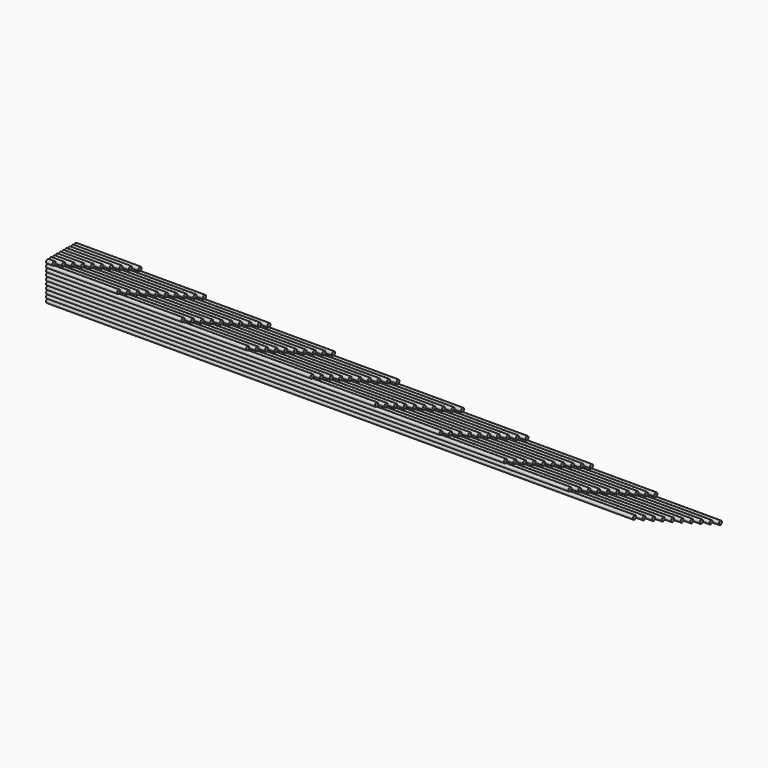
from build123d import *

# Parameters (mm, degrees)
F1_DEPTH   = 10
F2_DEPTH   = 20
F3_DEPTH   = 30
F4_DEPTH   = 40
F5_DEPTH   = 50
F6_DEPTH   = 60
F7_DEPTH   = 70
F8_DEPTH   = 80
F9_DEPTH   = 90
F10_DEPTH  = 100
F11_DEPTH  = 110
F12_DEPTH  = 120
F13_DEPTH  = 130
F14_DEPTH  = 140
F15_DEPTH  = 150
F16_DEPTH  = 160
F17_DEPTH  = 170
F18_DEPTH  = 180
F19_DEPTH  = 190
F20_DEPTH  = 200
F21_DEPTH  = 210
F22_DEPTH  = 220
F23_DEPTH  = 230
F24_DEPTH  = 240
F25_DEPTH  = 250
F26_DEPTH  = 260
F27_DEPTH  = 270
F28_DEPTH  = 280
F29_DEPTH  = 290
F30_DEPTH  = 300
F31_DEPTH  = 310
F32_DEPTH  = 320
F33_DEPTH  = 330
F34_DEPTH  = 340
F35_DEPTH  = 350
F36_DEPTH  = 360
F37_DEPTH  = 370
F38_DEPTH  = 380
F39_DEPTH  = 390
F40_DEPTH  = 400
F41_DEPTH  = 410
F42_DEPTH  = 420
F43_DEPTH  = 430
F44_DEPTH  = 440
F45_DEPTH  = 450
F46_DEPTH  = 460
F47_DEPTH  = 470
F48_DEPTH  = 480
F49_DEPTH  = 490
F50_DEPTH  = 500
F51_DEPTH  = 510
F52_DEPTH  = 520
F53_DEPTH  = 530
F54_DEPTH  = 540
F55_DEPTH  = 550
F56_DEPTH  = 560
F57_DEPTH  = 570
F58_DEPTH  = 580
F59_DEPTH  = 590
F60_DEPTH  = 600
F61_DEPTH  = 610
F62_DEPTH  = 620
F63_DEPTH  = 630
F64_DEPTH  = 640
F65_DEPTH  = 650
F66_DEPTH  = 660
F67_DEPTH  = 670
F68_DEPTH  = 680
F69_DEPTH  = 690
F70_DEPTH  = 700
F71_DEPTH  = 710
F72_DEPTH  = 720
F73_DEPTH  = 730
F74_DEPTH  = 740
F75_DEPTH  = 750
F76_DEPTH  = 760
F77_DEPTH  = 770
F78_DEPTH  = 780
F79_DEPTH  = 790
F80_DEPTH  = 800
F81_DEPTH  = 810
F82_DEPTH  = 820
F83_DEPTH  = 830
F84_DEPTH  = 840
F85_DEPTH  = 850
F86_DEPTH  = 860
F87_DEPTH  = 870
F88_DEPTH  = 880
F89_DEPTH  = 890
F90_DEPTH  = 900
F91_DEPTH  = 910
F92_DEPTH  = 920
F93_DEPTH  = 930
F94_DEPTH  = 940
F95_DEPTH  = 950
F96_DEPTH  = 960
F97_DEPTH  = 970
F98_DEPTH  = 980
F99_DEPTH  = 990
F100_DEPTH = 1000


with BuildPart() as f1:
    # F0 (on Right) → F1 (new body)
    with BuildSketch(Plane.YZ):
        with BuildLine():
            ThreePointArc((3, 54), (-2.12132, 56.12132), (0, 51))
            ThreePointArc((0, 51), (2.12132, 51.87868), (3, 54))
        make_face()
    extrude(amount=F1_DEPTH)


with BuildPart() as f2:
    # F0 (on Right) → F2 (new body)
    with BuildSketch(Plane.YZ):
        with BuildLine():
            ThreePointArc((9, 54), (6, 57), (3, 54))
            ThreePointArc((3, 54), (3.87868, 51.87868), (6, 51))
            ThreePointArc((6, 51), (8.12132, 51.87868), (9, 54))
        make_face()
    extrude(amount=F2_DEPTH)


with BuildPart() as f3:
    # F0 (on Right) → F3 (new body)
    with BuildSketch(Plane.YZ):
        with BuildLine():
            ThreePointArc((15, 54), (12, 57), (9, 54))
            ThreePointArc((9, 54), (9.87868, 51.87868), (12, 51))
            ThreePointArc((12, 51), (14.12132, 51.87868), (15, 54))
        make_face()
    extrude(amount=F3_DEPTH)


with BuildPart() as f4:
    # F0 (on Right) → F4 (new body)
    with BuildSketch(Plane.YZ):
        with BuildLine():
            ThreePointArc((21, 54), (18, 57), (15, 54))
            ThreePointArc((15, 54), (15.87868, 51.87868), (18, 51))
            ThreePointArc((18, 51), (20.12132, 51.87868), (21, 54))
        make_face()
    extrude(amount=F4_DEPTH)


with BuildPart() as f5:
    # F0 (on Right) → F5 (new body)
    with BuildSketch(Plane.YZ):
        with BuildLine():
            ThreePointArc((27, 54), (24, 57), (21, 54))
            ThreePointArc((21, 54), (21.87868, 51.87868), (24, 51))
            ThreePointArc((24, 51), (26.12132, 51.87868), (27, 54))
        make_face()
    extrude(amount=F5_DEPTH)


with BuildPart() as f6:
    # F0 (on Right) → F6 (new body)
    with BuildSketch(Plane.YZ):
        with BuildLine():
            ThreePointArc((33, 54), (30, 57), (27, 54))
            ThreePointArc((27, 54), (27.87868, 51.87868), (30, 51))
            ThreePointArc((30, 51), (32.12132, 51.87868), (33, 54))
        make_face()
    extrude(amount=F6_DEPTH)


with BuildPart() as f7:
    # F0 (on Right) → F7 (new body)
    with BuildSketch(Plane.YZ):
        with BuildLine():
            ThreePointArc((39, 54), (36, 57), (33, 54))
            ThreePointArc((33, 54), (33.87868, 51.87868), (36, 51))
            ThreePointArc((36, 51), (38.12132, 51.87868), (39, 54))
        make_face()
    extrude(amount=F7_DEPTH)


with BuildPart() as f8:
    # F0 (on Right) → F8 (new body)
    with BuildSketch(Plane.YZ):
        with BuildLine():
            ThreePointArc((45, 54), (42, 57), (39, 54))
            ThreePointArc((39, 54), (39.87868, 51.87868), (42, 51))
            ThreePointArc((42, 51), (44.12132, 51.87868), (45, 54))
        make_face()
    extrude(amount=F8_DEPTH)


with BuildPart() as f9:
    # F0 (on Right) → F9 (new body)
    with BuildSketch(Plane.YZ):
        with BuildLine():
            ThreePointArc((51, 54), (48, 57), (45, 54))
            ThreePointArc((45, 54), (45.87868, 51.87868), (48, 51))
            ThreePointArc((48, 51), (50.12132, 51.87868), (51, 54))
        make_face()
    extrude(amount=F9_DEPTH)


with BuildPart() as f10:
    # F0 (on Right) → F10 (new body)
    with BuildSketch(Plane.YZ):
        with BuildLine():
            ThreePointArc((51, 54), (51.87868, 51.87868), (54, 51))
            ThreePointArc((54, 51), (56.12132, 51.87868), (57, 54))
            ThreePointArc((57, 54), (54, 57), (51, 54))
        make_face()
    extrude(amount=F10_DEPTH)


with BuildPart() as f11:
    # F0 (on Right) → F11 (new body)
    with BuildSketch(Plane.YZ):
        with BuildLine():
            ThreePointArc((0, 51), (-3, 48), (0, 45))
            ThreePointArc((0, 45), (2.12132, 45.87868), (3, 48))
            ThreePointArc((3, 48), (2.12132, 50.12132), (0, 51))
        make_face()
    extrude(amount=F11_DEPTH)


with BuildPart() as f12:
    # F0 (on Right) → F12 (new body)
    with BuildSketch(Plane.YZ):
        with BuildLine():
            ThreePointArc((6, 51), (3.87868, 50.12132), (3, 48))
            ThreePointArc((3, 48), (3.87868, 45.87868), (6, 45))
            ThreePointArc((6, 45), (8.12132, 45.87868), (9, 48))
            ThreePointArc((9, 48), (8.12132, 50.12132), (6, 51))
        make_face()
    extrude(amount=F12_DEPTH)


with BuildPart() as f13:
    # F0 (on Right) → F13 (new body)
    with BuildSketch(Plane.YZ):
        with BuildLine():
            ThreePointArc((12, 51), (9.87868, 50.12132), (9, 48))
            ThreePointArc((9, 48), (9.87868, 45.87868), (12, 45))
            ThreePointArc((12, 45), (14.12132, 45.87868), (15, 48))
            ThreePointArc((15, 48), (14.12132, 50.12132), (12, 51))
        make_face()
    extrude(amount=F13_DEPTH)


with BuildPart() as f14:
    # F0 (on Right) → F14 (new body)
    with BuildSketch(Plane.YZ):
        with BuildLine():
            ThreePointArc((18, 51), (15.87868, 50.12132), (15, 48))
            ThreePointArc((15, 48), (15.87868, 45.87868), (18, 45))
            ThreePointArc((18, 45), (20.12132, 45.87868), (21, 48))
            ThreePointArc((21, 48), (20.12132, 50.12132), (18, 51))
        make_face()
    extrude(amount=F14_DEPTH)


with BuildPart() as f15:
    # F0 (on Right) → F15 (new body)
    with BuildSketch(Plane.YZ):
        with BuildLine():
            ThreePointArc((24, 51), (21.87868, 50.12132), (21, 48))
            ThreePointArc((21, 48), (21.87868, 45.87868), (24, 45))
            ThreePointArc((24, 45), (26.12132, 45.87868), (27, 48))
            ThreePointArc((27, 48), (26.12132, 50.12132), (24, 51))
        make_face()
    extrude(amount=F15_DEPTH)


with BuildPart() as f16:
    # F0 (on Right) → F16 (new body)
    with BuildSketch(Plane.YZ):
        with BuildLine():
            ThreePointArc((30, 51), (27.87868, 50.12132), (27, 48))
            ThreePointArc((27, 48), (27.87868, 45.87868), (30, 45))
            ThreePointArc((30, 45), (32.12132, 45.87868), (33, 48))
            ThreePointArc((33, 48), (32.12132, 50.12132), (30, 51))
        make_face()
    extrude(amount=F16_DEPTH)


with BuildPart() as f17:
    # F0 (on Right) → F17 (new body)
    with BuildSketch(Plane.YZ):
        with BuildLine():
            ThreePointArc((36, 51), (33.87868, 50.12132), (33, 48))
            ThreePointArc((33, 48), (33.87868, 45.87868), (36, 45))
            ThreePointArc((36, 45), (38.12132, 45.87868), (39, 48))
            ThreePointArc((39, 48), (38.12132, 50.12132), (36, 51))
        make_face()
    extrude(amount=F17_DEPTH)


with BuildPart() as f18:
    # F0 (on Right) → F18 (new body)
    with BuildSketch(Plane.YZ):
        with BuildLine():
            ThreePointArc((42, 51), (39.87868, 50.12132), (39, 48))
            ThreePointArc((39, 48), (39.87868, 45.87868), (42, 45))
            ThreePointArc((42, 45), (44.12132, 45.87868), (45, 48))
            ThreePointArc((45, 48), (44.12132, 50.12132), (42, 51))
        make_face()
    extrude(amount=F18_DEPTH)


with BuildPart() as f19:
    # F0 (on Right) → F19 (new body)
    with BuildSketch(Plane.YZ):
        with BuildLine():
            ThreePointArc((45, 48), (45.87868, 45.87868), (48, 45))
            ThreePointArc((48, 45), (50.12132, 45.87868), (51, 48))
            ThreePointArc((51, 48), (50.12132, 50.12132), (48, 51))
            ThreePointArc((48, 51), (45.87868, 50.12132), (45, 48))
        make_face()
    extrude(amount=F19_DEPTH)


with BuildPart() as f20:
    # F0 (on Right) → F20 (new body)
    with BuildSketch(Plane.YZ):
        with BuildLine():
            ThreePointArc((51, 48), (51.87868, 45.87868), (54, 45))
            ThreePointArc((54, 45), (56.12132, 45.87868), (57, 48))
            ThreePointArc((57, 48), (56.12132, 50.12132), (54, 51))
            ThreePointArc((54, 51), (51.87868, 50.12132), (51, 48))
        make_face()
    extrude(amount=F20_DEPTH)


with BuildPart() as f21:
    # F0 (on Right) → F21 (new body)
    with BuildSketch(Plane.YZ):
        with BuildLine():
            ThreePointArc((0, 45), (-3, 42), (0, 39))
            ThreePointArc((0, 39), (2.12132, 39.87868), (3, 42))
            ThreePointArc((3, 42), (2.12132, 44.12132), (0, 45))
        make_face()
    extrude(amount=F21_DEPTH)


with BuildPart() as f22:
    # F0 (on Right) → F22 (new body)
    with BuildSketch(Plane.YZ):
        with BuildLine():
            ThreePointArc((6, 45), (3.87868, 44.12132), (3, 42))
            ThreePointArc((3, 42), (3.87868, 39.87868), (6, 39))
            ThreePointArc((6, 39), (8.12132, 39.87868), (9, 42))
            ThreePointArc((9, 42), (8.12132, 44.12132), (6, 45))
        make_face()
    extrude(amount=F22_DEPTH)


with BuildPart() as f23:
    # F0 (on Right) → F23 (new body)
    with BuildSketch(Plane.YZ):
        with BuildLine():
            ThreePointArc((12, 45), (9.87868, 44.12132), (9, 42))
            ThreePointArc((9, 42), (9.87868, 39.87868), (12, 39))
            ThreePointArc((12, 39), (14.12132, 39.87868), (15, 42))
            ThreePointArc((15, 42), (14.12132, 44.12132), (12, 45))
        make_face()
    extrude(amount=F23_DEPTH)


with BuildPart() as f24:
    # F0 (on Right) → F24 (new body)
    with BuildSketch(Plane.YZ):
        with BuildLine():
            ThreePointArc((18, 45), (15.87868, 44.12132), (15, 42))
            ThreePointArc((15, 42), (15.87868, 39.87868), (18, 39))
            ThreePointArc((18, 39), (20.12132, 39.87868), (21, 42))
            ThreePointArc((21, 42), (20.12132, 44.12132), (18, 45))
        make_face()
    extrude(amount=F24_DEPTH)


with BuildPart() as f25:
    # F0 (on Right) → F25 (new body)
    with BuildSketch(Plane.YZ):
        with BuildLine():
            ThreePointArc((24, 45), (21.87868, 44.12132), (21, 42))
            ThreePointArc((21, 42), (21.87868, 39.87868), (24, 39))
            ThreePointArc((24, 39), (26.12132, 39.87868), (27, 42))
            ThreePointArc((27, 42), (26.12132, 44.12132), (24, 45))
        make_face()
    extrude(amount=F25_DEPTH)


with BuildPart() as f26:
    # F0 (on Right) → F26 (new body)
    with BuildSketch(Plane.YZ):
        with BuildLine():
            ThreePointArc((30, 45), (27.87868, 44.12132), (27, 42))
            ThreePointArc((27, 42), (27.87868, 39.87868), (30, 39))
            ThreePointArc((30, 39), (32.12132, 39.87868), (33, 42))
            ThreePointArc((33, 42), (32.12132, 44.12132), (30, 45))
        make_face()
    extrude(amount=F26_DEPTH)


with BuildPart() as f27:
    # F0 (on Right) → F27 (new body)
    with BuildSketch(Plane.YZ):
        with BuildLine():
            ThreePointArc((36, 45), (33.87868, 44.12132), (33, 42))
            ThreePointArc((33, 42), (33.87868, 39.87868), (36, 39))
            ThreePointArc((36, 39), (38.12132, 39.87868), (39, 42))
            ThreePointArc((39, 42), (38.12132, 44.12132), (36, 45))
        make_face()
    extrude(amount=F27_DEPTH)


with BuildPart() as f28:
    # F0 (on Right) → F28 (new body)
    with BuildSketch(Plane.YZ):
        with BuildLine():
            ThreePointArc((39, 42), (39.87868, 39.87868), (42, 39))
            ThreePointArc((42, 39), (44.12132, 39.87868), (45, 42))
            ThreePointArc((45, 42), (44.12132, 44.12132), (42, 45))
            ThreePointArc((42, 45), (39.87868, 44.12132), (39, 42))
        make_face()
    extrude(amount=F28_DEPTH)


with BuildPart() as f29:
    # F0 (on Right) → F29 (new body)
    with BuildSketch(Plane.YZ):
        with BuildLine():
            ThreePointArc((45, 42), (45.87868, 39.87868), (48, 39))
            ThreePointArc((48, 39), (50.12132, 39.87868), (51, 42))
            ThreePointArc((51, 42), (50.12132, 44.12132), (48, 45))
            ThreePointArc((48, 45), (45.87868, 44.12132), (45, 42))
        make_face()
    extrude(amount=F29_DEPTH)


with BuildPart() as f30:
    # F0 (on Right) → F30 (new body)
    with BuildSketch(Plane.YZ):
        with BuildLine():
            ThreePointArc((51, 42), (51.87868, 39.87868), (54, 39))
            ThreePointArc((54, 39), (56.12132, 39.87868), (57, 42))
            ThreePointArc((57, 42), (56.12132, 44.12132), (54, 45))
            ThreePointArc((54, 45), (51.87868, 44.12132), (51, 42))
        make_face()
    extrude(amount=F30_DEPTH)


with BuildPart() as f31:
    # F0 (on Right) → F31 (new body)
    with BuildSketch(Plane.YZ):
        with BuildLine():
            ThreePointArc((0, 39), (-3, 36), (0, 33))
            ThreePointArc((0, 33), (2.12132, 33.87868), (3, 36))
            ThreePointArc((3, 36), (2.12132, 38.12132), (0, 39))
        make_face()
    extrude(amount=F31_DEPTH)


with BuildPart() as f32:
    # F0 (on Right) → F32 (new body)
    with BuildSketch(Plane.YZ):
        with BuildLine():
            ThreePointArc((6, 39), (3.87868, 38.12132), (3, 36))
            ThreePointArc((3, 36), (3.87868, 33.87868), (6, 33))
            ThreePointArc((6, 33), (8.12132, 33.87868), (9, 36))
            ThreePointArc((9, 36), (8.12132, 38.12132), (6, 39))
        make_face()
    extrude(amount=F32_DEPTH)


with BuildPart() as f33:
    # F0 (on Right) → F33 (new body)
    with BuildSketch(Plane.YZ):
        with BuildLine():
            ThreePointArc((12, 39), (9.87868, 38.12132), (9, 36))
            ThreePointArc((9, 36), (9.87868, 33.87868), (12, 33))
            ThreePointArc((12, 33), (14.12132, 33.87868), (15, 36))
            ThreePointArc((15, 36), (14.12132, 38.12132), (12, 39))
        make_face()
    extrude(amount=F33_DEPTH)


with BuildPart() as f34:
    # F0 (on Right) → F34 (new body)
    with BuildSketch(Plane.YZ):
        with BuildLine():
            ThreePointArc((18, 39), (15.87868, 38.12132), (15, 36))
            ThreePointArc((15, 36), (15.87868, 33.87868), (18, 33))
            ThreePointArc((18, 33), (20.12132, 33.87868), (21, 36))
            ThreePointArc((21, 36), (20.12132, 38.12132), (18, 39))
        make_face()
    extrude(amount=F34_DEPTH)


with BuildPart() as f35:
    # F0 (on Right) → F35 (new body)
    with BuildSketch(Plane.YZ):
        with BuildLine():
            ThreePointArc((24, 39), (21.87868, 38.12132), (21, 36))
            ThreePointArc((21, 36), (21.87868, 33.87868), (24, 33))
            ThreePointArc((24, 33), (26.12132, 33.87868), (27, 36))
            ThreePointArc((27, 36), (26.12132, 38.12132), (24, 39))
        make_face()
    extrude(amount=F35_DEPTH)


with BuildPart() as f36:
    # F0 (on Right) → F36 (new body)
    with BuildSketch(Plane.YZ):
        with BuildLine():
            ThreePointArc((30, 39), (27.87868, 38.12132), (27, 36))
            ThreePointArc((27, 36), (27.87868, 33.87868), (30, 33))
            ThreePointArc((30, 33), (32.12132, 33.87868), (33, 36))
            ThreePointArc((33, 36), (32.12132, 38.12132), (30, 39))
        make_face()
    extrude(amount=F36_DEPTH)


with BuildPart() as f37:
    # F0 (on Right) → F37 (new body)
    with BuildSketch(Plane.YZ):
        with BuildLine():
            ThreePointArc((33, 36), (33.87868, 33.87868), (36, 33))
            ThreePointArc((36, 33), (38.12132, 33.87868), (39, 36))
            ThreePointArc((39, 36), (38.12132, 38.12132), (36, 39))
            ThreePointArc((36, 39), (33.87868, 38.12132), (33, 36))
        make_face()
    extrude(amount=F37_DEPTH)


with BuildPart() as f38:
    # F0 (on Right) → F38 (new body)
    with BuildSketch(Plane.YZ):
        with BuildLine():
            ThreePointArc((39, 36), (39.87868, 33.87868), (42, 33))
            ThreePointArc((42, 33), (44.12132, 33.87868), (45, 36))
            ThreePointArc((45, 36), (44.12132, 38.12132), (42, 39))
            ThreePointArc((42, 39), (39.87868, 38.12132), (39, 36))
        make_face()
    extrude(amount=F38_DEPTH)


with BuildPart() as f39:
    # F0 (on Right) → F39 (new body)
    with BuildSketch(Plane.YZ):
        with BuildLine():
            ThreePointArc((45, 36), (45.87868, 33.87868), (48, 33))
            ThreePointArc((48, 33), (50.12132, 33.87868), (51, 36))
            ThreePointArc((51, 36), (50.12132, 38.12132), (48, 39))
            ThreePointArc((48, 39), (45.87868, 38.12132), (45, 36))
        make_face()
    extrude(amount=F39_DEPTH)


with BuildPart() as f40:
    # F0 (on Right) → F40 (new body)
    with BuildSketch(Plane.YZ):
        with BuildLine():
            ThreePointArc((51, 36), (51.87868, 33.87868), (54, 33))
            ThreePointArc((54, 33), (56.12132, 33.87868), (57, 36))
            ThreePointArc((57, 36), (56.12132, 38.12132), (54, 39))
            ThreePointArc((54, 39), (51.87868, 38.12132), (51, 36))
        make_face()
    extrude(amount=F40_DEPTH)


with BuildPart() as f41:
    # F0 (on Right) → F41 (new body)
    with BuildSketch(Plane.YZ):
        with BuildLine():
            ThreePointArc((0, 33), (-3, 30), (0, 27))
            ThreePointArc((0, 27), (2.12132, 27.87868), (3, 30))
            ThreePointArc((3, 30), (2.12132, 32.12132), (0, 33))
        make_face()
    extrude(amount=F41_DEPTH)


with BuildPart() as f42:
    # F0 (on Right) → F42 (new body)
    with BuildSketch(Plane.YZ):
        with BuildLine():
            ThreePointArc((6, 33), (3.87868, 32.12132), (3, 30))
            ThreePointArc((3, 30), (3.87868, 27.87868), (6, 27))
            ThreePointArc((6, 27), (8.12132, 27.87868), (9, 30))
            ThreePointArc((9, 30), (8.12132, 32.12132), (6, 33))
        make_face()
    extrude(amount=F42_DEPTH)


with BuildPart() as f43:
    # F0 (on Right) → F43 (new body)
    with BuildSketch(Plane.YZ):
        with BuildLine():
            ThreePointArc((12, 33), (9.87868, 32.12132), (9, 30))
            ThreePointArc((9, 30), (9.87868, 27.87868), (12, 27))
            ThreePointArc((12, 27), (14.12132, 27.87868), (15, 30))
            ThreePointArc((15, 30), (14.12132, 32.12132), (12, 33))
        make_face()
    extrude(amount=F43_DEPTH)


with BuildPart() as f44:
    # F0 (on Right) → F44 (new body)
    with BuildSketch(Plane.YZ):
        with BuildLine():
            ThreePointArc((18, 33), (15.87868, 32.12132), (15, 30))
            ThreePointArc((15, 30), (15.87868, 27.87868), (18, 27))
            ThreePointArc((18, 27), (20.12132, 27.87868), (21, 30))
            ThreePointArc((21, 30), (20.12132, 32.12132), (18, 33))
        make_face()
    extrude(amount=F44_DEPTH)


with BuildPart() as f45:
    # F0 (on Right) → F45 (new body)
    with BuildSketch(Plane.YZ):
        with BuildLine():
            ThreePointArc((24, 33), (21.87868, 32.12132), (21, 30))
            ThreePointArc((21, 30), (21.87868, 27.87868), (24, 27))
            ThreePointArc((24, 27), (26.12132, 27.87868), (27, 30))
            ThreePointArc((27, 30), (26.12132, 32.12132), (24, 33))
        make_face()
    extrude(amount=F45_DEPTH)


with BuildPart() as f46:
    # F0 (on Right) → F46 (new body)
    with BuildSketch(Plane.YZ):
        with BuildLine():
            ThreePointArc((27, 30), (27.87868, 27.87868), (30, 27))
            ThreePointArc((30, 27), (32.12132, 27.87868), (33, 30))
            ThreePointArc((33, 30), (32.12132, 32.12132), (30, 33))
            ThreePointArc((30, 33), (27.87868, 32.12132), (27, 30))
        make_face()
    extrude(amount=F46_DEPTH)


with BuildPart() as f47:
    # F0 (on Right) → F47 (new body)
    with BuildSketch(Plane.YZ):
        with BuildLine():
            ThreePointArc((33, 30), (33.87868, 27.87868), (36, 27))
            ThreePointArc((36, 27), (38.12132, 27.87868), (39, 30))
            ThreePointArc((39, 30), (38.12132, 32.12132), (36, 33))
            ThreePointArc((36, 33), (33.87868, 32.12132), (33, 30))
        make_face()
    extrude(amount=F47_DEPTH)


with BuildPart() as f48:
    # F0 (on Right) → F48 (new body)
    with BuildSketch(Plane.YZ):
        with BuildLine():
            ThreePointArc((39, 30), (39.87868, 27.87868), (42, 27))
            ThreePointArc((42, 27), (44.12132, 27.87868), (45, 30))
            ThreePointArc((45, 30), (44.12132, 32.12132), (42, 33))
            ThreePointArc((42, 33), (39.87868, 32.12132), (39, 30))
        make_face()
    extrude(amount=F48_DEPTH)


with BuildPart() as f49:
    # F0 (on Right) → F49 (new body)
    with BuildSketch(Plane.YZ):
        with BuildLine():
            ThreePointArc((45, 30), (45.87868, 27.87868), (48, 27))
            ThreePointArc((48, 27), (50.12132, 27.87868), (51, 30))
            ThreePointArc((51, 30), (50.12132, 32.12132), (48, 33))
            ThreePointArc((48, 33), (45.87868, 32.12132), (45, 30))
        make_face()
    extrude(amount=F49_DEPTH)


with BuildPart() as f50:
    # F0 (on Right) → F50 (new body)
    with BuildSketch(Plane.YZ):
        with BuildLine():
            ThreePointArc((51, 30), (51.87868, 27.87868), (54, 27))
            ThreePointArc((54, 27), (56.12132, 27.87868), (57, 30))
            ThreePointArc((57, 30), (56.12132, 32.12132), (54, 33))
            ThreePointArc((54, 33), (51.87868, 32.12132), (51, 30))
        make_face()
    extrude(amount=F50_DEPTH)


with BuildPart() as f51:
    # F0 (on Right) → F51 (new body)
    with BuildSketch(Plane.YZ):
        with BuildLine():
            ThreePointArc((0, 27), (-3, 24), (0, 21))
            ThreePointArc((0, 21), (2.12132, 21.87868), (3, 24))
            ThreePointArc((3, 24), (2.12132, 26.12132), (0, 27))
        make_face()
    extrude(amount=F51_DEPTH)


with BuildPart() as f52:
    # F0 (on Right) → F52 (new body)
    with BuildSketch(Plane.YZ):
        with BuildLine():
            ThreePointArc((6, 27), (3.87868, 26.12132), (3, 24))
            ThreePointArc((3, 24), (3.87868, 21.87868), (6, 21))
            ThreePointArc((6, 21), (8.12132, 21.87868), (9, 24))
            ThreePointArc((9, 24), (8.12132, 26.12132), (6, 27))
        make_face()
    extrude(amount=F52_DEPTH)


with BuildPart() as f53:
    # F0 (on Right) → F53 (new body)
    with BuildSketch(Plane.YZ):
        with BuildLine():
            ThreePointArc((12, 27), (9.87868, 26.12132), (9, 24))
            ThreePointArc((9, 24), (9.87868, 21.87868), (12, 21))
            ThreePointArc((12, 21), (14.12132, 21.87868), (15, 24))
            ThreePointArc((15, 24), (14.12132, 26.12132), (12, 27))
        make_face()
    extrude(amount=F53_DEPTH)


with BuildPart() as f54:
    # F0 (on Right) → F54 (new body)
    with BuildSketch(Plane.YZ):
        with BuildLine():
            ThreePointArc((18, 27), (15.87868, 26.12132), (15, 24))
            ThreePointArc((15, 24), (15.87868, 21.87868), (18, 21))
            ThreePointArc((18, 21), (20.12132, 21.87868), (21, 24))
            ThreePointArc((21, 24), (20.12132, 26.12132), (18, 27))
        make_face()
    extrude(amount=F54_DEPTH)


with BuildPart() as f55:
    # F0 (on Right) → F55 (new body)
    with BuildSketch(Plane.YZ):
        with BuildLine():
            ThreePointArc((21, 24), (21.87868, 21.87868), (24, 21))
            ThreePointArc((24, 21), (26.12132, 21.87868), (27, 24))
            ThreePointArc((27, 24), (26.12132, 26.12132), (24, 27))
            ThreePointArc((24, 27), (21.87868, 26.12132), (21, 24))
        make_face()
    extrude(amount=F55_DEPTH)


with BuildPart() as f56:
    # F0 (on Right) → F56 (new body)
    with BuildSketch(Plane.YZ):
        with BuildLine():
            ThreePointArc((27, 24), (27.87868, 21.87868), (30, 21))
            ThreePointArc((30, 21), (32.12132, 21.87868), (33, 24))
            ThreePointArc((33, 24), (32.12132, 26.12132), (30, 27))
            ThreePointArc((30, 27), (27.87868, 26.12132), (27, 24))
        make_face()
    extrude(amount=F56_DEPTH)


with BuildPart() as f57:
    # F0 (on Right) → F57 (new body)
    with BuildSketch(Plane.YZ):
        with BuildLine():
            ThreePointArc((33, 24), (33.87868, 21.87868), (36, 21))
            ThreePointArc((36, 21), (38.12132, 21.87868), (39, 24))
            ThreePointArc((39, 24), (38.12132, 26.12132), (36, 27))
            ThreePointArc((36, 27), (33.87868, 26.12132), (33, 24))
        make_face()
    extrude(amount=F57_DEPTH)


with BuildPart() as f58:
    # F0 (on Right) → F58 (new body)
    with BuildSketch(Plane.YZ):
        with BuildLine():
            ThreePointArc((39, 24), (39.87868, 21.87868), (42, 21))
            ThreePointArc((42, 21), (44.12132, 21.87868), (45, 24))
            ThreePointArc((45, 24), (44.12132, 26.12132), (42, 27))
            ThreePointArc((42, 27), (39.87868, 26.12132), (39, 24))
        make_face()
    extrude(amount=F58_DEPTH)


with BuildPart() as f59:
    # F0 (on Right) → F59 (new body)
    with BuildSketch(Plane.YZ):
        with BuildLine():
            ThreePointArc((45, 24), (45.87868, 21.87868), (48, 21))
            ThreePointArc((48, 21), (50.12132, 21.87868), (51, 24))
            ThreePointArc((51, 24), (50.12132, 26.12132), (48, 27))
            ThreePointArc((48, 27), (45.87868, 26.12132), (45, 24))
        make_face()
    extrude(amount=F59_DEPTH)


with BuildPart() as f60:
    # F0 (on Right) → F60 (new body)
    with BuildSketch(Plane.YZ):
        with BuildLine():
            ThreePointArc((51, 24), (51.87868, 21.87868), (54, 21))
            ThreePointArc((54, 21), (56.12132, 21.87868), (57, 24))
            ThreePointArc((57, 24), (56.12132, 26.12132), (54, 27))
            ThreePointArc((54, 27), (51.87868, 26.12132), (51, 24))
        make_face()
    extrude(amount=F60_DEPTH)


with BuildPart() as f61:
    # F0 (on Right) → F61 (new body)
    with BuildSketch(Plane.YZ):
        with BuildLine():
            ThreePointArc((0, 21), (-3, 18), (0, 15))
            ThreePointArc((0, 15), (2.12132, 15.87868), (3, 18))
            ThreePointArc((3, 18), (2.12132, 20.12132), (0, 21))
        make_face()
    extrude(amount=F61_DEPTH)


with BuildPart() as f62:
    # F0 (on Right) → F62 (new body)
    with BuildSketch(Plane.YZ):
        with BuildLine():
            ThreePointArc((6, 21), (3.87868, 20.12132), (3, 18))
            ThreePointArc((3, 18), (3.87868, 15.87868), (6, 15))
            ThreePointArc((6, 15), (8.12132, 15.87868), (9, 18))
            ThreePointArc((9, 18), (8.12132, 20.12132), (6, 21))
        make_face()
    extrude(amount=F62_DEPTH)


with BuildPart() as f63:
    # F0 (on Right) → F63 (new body)
    with BuildSketch(Plane.YZ):
        with BuildLine():
            ThreePointArc((12, 21), (9.87868, 20.12132), (9, 18))
            ThreePointArc((9, 18), (9.87868, 15.87868), (12, 15))
            ThreePointArc((12, 15), (14.12132, 15.87868), (15, 18))
            ThreePointArc((15, 18), (14.12132, 20.12132), (12, 21))
        make_face()
    extrude(amount=F63_DEPTH)


with BuildPart() as f64:
    # F0 (on Right) → F64 (new body)
    with BuildSketch(Plane.YZ):
        with BuildLine():
            ThreePointArc((15, 18), (15.87868, 15.87868), (18, 15))
            ThreePointArc((18, 15), (20.12132, 15.87868), (21, 18))
            ThreePointArc((21, 18), (20.12132, 20.12132), (18, 21))
            ThreePointArc((18, 21), (15.87868, 20.12132), (15, 18))
        make_face()
    extrude(amount=F64_DEPTH)


with BuildPart() as f65:
    # F0 (on Right) → F65 (new body)
    with BuildSketch(Plane.YZ):
        with BuildLine():
            ThreePointArc((21, 18), (21.87868, 15.87868), (24, 15))
            ThreePointArc((24, 15), (26.12132, 15.87868), (27, 18))
            ThreePointArc((27, 18), (26.12132, 20.12132), (24, 21))
            ThreePointArc((24, 21), (21.87868, 20.12132), (21, 18))
        make_face()
    extrude(amount=F65_DEPTH)


with BuildPart() as f66:
    # F0 (on Right) → F66 (new body)
    with BuildSketch(Plane.YZ):
        with BuildLine():
            ThreePointArc((27, 18), (27.87868, 15.87868), (30, 15))
            ThreePointArc((30, 15), (32.12132, 15.87868), (33, 18))
            ThreePointArc((33, 18), (32.12132, 20.12132), (30, 21))
            ThreePointArc((30, 21), (27.87868, 20.12132), (27, 18))
        make_face()
    extrude(amount=F66_DEPTH)


with BuildPart() as f67:
    # F0 (on Right) → F67 (new body)
    with BuildSketch(Plane.YZ):
        with BuildLine():
            ThreePointArc((33, 18), (33.87868, 15.87868), (36, 15))
            ThreePointArc((36, 15), (38.12132, 15.87868), (39, 18))
            ThreePointArc((39, 18), (38.12132, 20.12132), (36, 21))
            ThreePointArc((36, 21), (33.87868, 20.12132), (33, 18))
        make_face()
    extrude(amount=F67_DEPTH)


with BuildPart() as f68:
    # F0 (on Right) → F68 (new body)
    with BuildSketch(Plane.YZ):
        with BuildLine():
            ThreePointArc((39, 18), (39.87868, 15.87868), (42, 15))
            ThreePointArc((42, 15), (44.12132, 15.87868), (45, 18))
            ThreePointArc((45, 18), (44.12132, 20.12132), (42, 21))
            ThreePointArc((42, 21), (39.87868, 20.12132), (39, 18))
        make_face()
    extrude(amount=F68_DEPTH)


with BuildPart() as f69:
    # F0 (on Right) → F69 (new body)
    with BuildSketch(Plane.YZ):
        with BuildLine():
            ThreePointArc((45, 18), (45.87868, 15.87868), (48, 15))
            ThreePointArc((48, 15), (50.12132, 15.87868), (51, 18))
            ThreePointArc((51, 18), (50.12132, 20.12132), (48, 21))
            ThreePointArc((48, 21), (45.87868, 20.12132), (45, 18))
        make_face()
    extrude(amount=F69_DEPTH)


with BuildPart() as f70:
    # F0 (on Right) → F70 (new body)
    with BuildSketch(Plane.YZ):
        with BuildLine():
            ThreePointArc((51, 18), (51.87868, 15.87868), (54, 15))
            ThreePointArc((54, 15), (56.12132, 15.87868), (57, 18))
            ThreePointArc((57, 18), (56.12132, 20.12132), (54, 21))
            ThreePointArc((54, 21), (51.87868, 20.12132), (51, 18))
        make_face()
    extrude(amount=F70_DEPTH)


with BuildPart() as f71:
    # F0 (on Right) → F71 (new body)
    with BuildSketch(Plane.YZ):
        with BuildLine():
            ThreePointArc((0, 15), (-3, 12), (0, 9))
            ThreePointArc((0, 9), (2.12132, 9.87868), (3, 12))
            ThreePointArc((3, 12), (2.12132, 14.12132), (0, 15))
        make_face()
    extrude(amount=F71_DEPTH)


with BuildPart() as f72:
    # F0 (on Right) → F72 (new body)
    with BuildSketch(Plane.YZ):
        with BuildLine():
            ThreePointArc((6, 15), (3.87868, 14.12132), (3, 12))
            ThreePointArc((3, 12), (3.87868, 9.87868), (6, 9))
            ThreePointArc((6, 9), (8.12132, 9.87868), (9, 12))
            ThreePointArc((9, 12), (8.12132, 14.12132), (6, 15))
        make_face()
    extrude(amount=F72_DEPTH)


with BuildPart() as f73:
    # F0 (on Right) → F73 (new body)
    with BuildSketch(Plane.YZ):
        with BuildLine():
            ThreePointArc((9, 12), (9.87868, 9.87868), (12, 9))
            ThreePointArc((12, 9), (14.12132, 9.87868), (15, 12))
            ThreePointArc((15, 12), (14.12132, 14.12132), (12, 15))
            ThreePointArc((12, 15), (9.87868, 14.12132), (9, 12))
        make_face()
    extrude(amount=F73_DEPTH)


with BuildPart() as f74:
    # F0 (on Right) → F74 (new body)
    with BuildSketch(Plane.YZ):
        with BuildLine():
            ThreePointArc((15, 12), (15.87868, 9.87868), (18, 9))
            ThreePointArc((18, 9), (20.12132, 9.87868), (21, 12))
            ThreePointArc((21, 12), (20.12132, 14.12132), (18, 15))
            ThreePointArc((18, 15), (15.87868, 14.12132), (15, 12))
        make_face()
    extrude(amount=F74_DEPTH)


with BuildPart() as f75:
    # F0 (on Right) → F75 (new body)
    with BuildSketch(Plane.YZ):
        with BuildLine():
            ThreePointArc((21, 12), (21.87868, 9.87868), (24, 9))
            ThreePointArc((24, 9), (26.12132, 9.87868), (27, 12))
            ThreePointArc((27, 12), (26.12132, 14.12132), (24, 15))
            ThreePointArc((24, 15), (21.87868, 14.12132), (21, 12))
        make_face()
    extrude(amount=F75_DEPTH)


with BuildPart() as f76:
    # F0 (on Right) → F76 (new body)
    with BuildSketch(Plane.YZ):
        with BuildLine():
            ThreePointArc((27, 12), (27.87868, 9.87868), (30, 9))
            ThreePointArc((30, 9), (32.12132, 9.87868), (33, 12))
            ThreePointArc((33, 12), (32.12132, 14.12132), (30, 15))
            ThreePointArc((30, 15), (27.87868, 14.12132), (27, 12))
        make_face()
    extrude(amount=F76_DEPTH)


with BuildPart() as f77:
    # F0 (on Right) → F77 (new body)
    with BuildSketch(Plane.YZ):
        with BuildLine():
            ThreePointArc((33, 12), (33.87868, 9.87868), (36, 9))
            ThreePointArc((36, 9), (38.12132, 9.87868), (39, 12))
            ThreePointArc((39, 12), (38.12132, 14.12132), (36, 15))
            ThreePointArc((36, 15), (33.87868, 14.12132), (33, 12))
        make_face()
    extrude(amount=F77_DEPTH)


with BuildPart() as f78:
    # F0 (on Right) → F78 (new body)
    with BuildSketch(Plane.YZ):
        with BuildLine():
            ThreePointArc((39, 12), (39.87868, 9.87868), (42, 9))
            ThreePointArc((42, 9), (44.12132, 9.87868), (45, 12))
            ThreePointArc((45, 12), (44.12132, 14.12132), (42, 15))
            ThreePointArc((42, 15), (39.87868, 14.12132), (39, 12))
        make_face()
    extrude(amount=F78_DEPTH)


with BuildPart() as f79:
    # F0 (on Right) → F79 (new body)
    with BuildSketch(Plane.YZ):
        with BuildLine():
            ThreePointArc((45, 12), (45.87868, 9.87868), (48, 9))
            ThreePointArc((48, 9), (50.12132, 9.87868), (51, 12))
            ThreePointArc((51, 12), (50.12132, 14.12132), (48, 15))
            ThreePointArc((48, 15), (45.87868, 14.12132), (45, 12))
        make_face()
    extrude(amount=F79_DEPTH)


with BuildPart() as f80:
    # F0 (on Right) → F80 (new body)
    with BuildSketch(Plane.YZ):
        with BuildLine():
            ThreePointArc((51, 12), (51.87868, 9.87868), (54, 9))
            ThreePointArc((54, 9), (56.12132, 9.87868), (57, 12))
            ThreePointArc((57, 12), (56.12132, 14.12132), (54, 15))
            ThreePointArc((54, 15), (51.87868, 14.12132), (51, 12))
        make_face()
    extrude(amount=F80_DEPTH)


with BuildPart() as f81:
    # F0 (on Right) → F81 (new body)
    with BuildSketch(Plane.YZ):
        with BuildLine():
            ThreePointArc((0, 9), (-3, 6), (0, 3))
            ThreePointArc((0, 3), (2.12132, 3.87868), (3, 6))
            ThreePointArc((3, 6), (2.12132, 8.12132), (0, 9))
        make_face()
    extrude(amount=F81_DEPTH)


with BuildPart() as f82:
    # F0 (on Right) → F82 (new body)
    with BuildSketch(Plane.YZ):
        with BuildLine():
            ThreePointArc((3, 6), (3.87868, 3.87868), (6, 3))
            ThreePointArc((6, 3), (8.12132, 3.87868), (9, 6))
            ThreePointArc((9, 6), (8.12132, 8.12132), (6, 9))
            ThreePointArc((6, 9), (3.87868, 8.12132), (3, 6))
        make_face()
    extrude(amount=F82_DEPTH)


with BuildPart() as f83:
    # F0 (on Right) → F83 (new body)
    with BuildSketch(Plane.YZ):
        with BuildLine():
            ThreePointArc((9, 6), (9.87868, 3.87868), (12, 3))
            ThreePointArc((12, 3), (14.12132, 3.87868), (15, 6))
            ThreePointArc((15, 6), (14.12132, 8.12132), (12, 9))
            ThreePointArc((12, 9), (9.87868, 8.12132), (9, 6))
        make_face()
    extrude(amount=F83_DEPTH)


with BuildPart() as f84:
    # F0 (on Right) → F84 (new body)
    with BuildSketch(Plane.YZ):
        with BuildLine():
            ThreePointArc((15, 6), (15.87868, 3.87868), (18, 3))
            ThreePointArc((18, 3), (20.12132, 3.87868), (21, 6))
            ThreePointArc((21, 6), (20.12132, 8.12132), (18, 9))
            ThreePointArc((18, 9), (15.87868, 8.12132), (15, 6))
        make_face()
    extrude(amount=F84_DEPTH)


with BuildPart() as f85:
    # F0 (on Right) → F85 (new body)
    with BuildSketch(Plane.YZ):
        with BuildLine():
            ThreePointArc((21, 6), (21.87868, 3.87868), (24, 3))
            ThreePointArc((24, 3), (26.12132, 3.87868), (27, 6))
            ThreePointArc((27, 6), (26.12132, 8.12132), (24, 9))
            ThreePointArc((24, 9), (21.87868, 8.12132), (21, 6))
        make_face()
    extrude(amount=F85_DEPTH)


with BuildPart() as f86:
    # F0 (on Right) → F86 (new body)
    with BuildSketch(Plane.YZ):
        with BuildLine():
            ThreePointArc((27, 6), (27.87868, 3.87868), (30, 3))
            ThreePointArc((30, 3), (32.12132, 3.87868), (33, 6))
            ThreePointArc((33, 6), (32.12132, 8.12132), (30, 9))
            ThreePointArc((30, 9), (27.87868, 8.12132), (27, 6))
        make_face()
    extrude(amount=F86_DEPTH)


with BuildPart() as f87:
    # F0 (on Right) → F87 (new body)
    with BuildSketch(Plane.YZ):
        with BuildLine():
            ThreePointArc((33, 6), (33.87868, 3.87868), (36, 3))
            ThreePointArc((36, 3), (38.12132, 3.87868), (39, 6))
            ThreePointArc((39, 6), (38.12132, 8.12132), (36, 9))
            ThreePointArc((36, 9), (33.87868, 8.12132), (33, 6))
        make_face()
    extrude(amount=F87_DEPTH)


with BuildPart() as f88:
    # F0 (on Right) → F88 (new body)
    with BuildSketch(Plane.YZ):
        with BuildLine():
            ThreePointArc((39, 6), (39.87868, 3.87868), (42, 3))
            ThreePointArc((42, 3), (44.12132, 3.87868), (45, 6))
            ThreePointArc((45, 6), (44.12132, 8.12132), (42, 9))
            ThreePointArc((42, 9), (39.87868, 8.12132), (39, 6))
        make_face()
    extrude(amount=F88_DEPTH)


with BuildPart() as f89:
    # F0 (on Right) → F89 (new body)
    with BuildSketch(Plane.YZ):
        with BuildLine():
            ThreePointArc((45, 6), (45.87868, 3.87868), (48, 3))
            ThreePointArc((48, 3), (50.12132, 3.87868), (51, 6))
            ThreePointArc((51, 6), (50.12132, 8.12132), (48, 9))
            ThreePointArc((48, 9), (45.87868, 8.12132), (45, 6))
        make_face()
    extrude(amount=F89_DEPTH)


with BuildPart() as f90:
    # F0 (on Right) → F90 (new body)
    with BuildSketch(Plane.YZ):
        with BuildLine():
            ThreePointArc((51, 6), (51.87868, 3.87868), (54, 3))
            ThreePointArc((54, 3), (56.12132, 3.87868), (57, 6))
            ThreePointArc((57, 6), (56.12132, 8.12132), (54, 9))
            ThreePointArc((54, 9), (51.87868, 8.12132), (51, 6))
        make_face()
    extrude(amount=F90_DEPTH)


with BuildPart() as f91:
    # F0 (on Right) → F91 (new body)
    with BuildSketch(Plane.YZ):
        with BuildLine():
            ThreePointArc((0, 3), (-2.12132, -2.12132), (3, 0))
            ThreePointArc((3, 0), (2.12132, 2.12132), (0, 3))
        make_face()
    extrude(amount=F91_DEPTH)


with BuildPart() as f92:
    # F0 (on Right) → F92 (new body)
    with BuildSketch(Plane.YZ):
        with BuildLine():
            ThreePointArc((6, 3), (3.87868, 2.12132), (3, 0))
            ThreePointArc((3, 0), (6, -3), (9, 0))
            ThreePointArc((9, 0), (8.12132, 2.12132), (6, 3))
        make_face()
    extrude(amount=F92_DEPTH)


with BuildPart() as f93:
    # F0 (on Right) → F93 (new body)
    with BuildSketch(Plane.YZ):
        with BuildLine():
            ThreePointArc((12, 3), (9.87868, 2.12132), (9, 0))
            ThreePointArc((9, 0), (12, -3), (15, 0))
            ThreePointArc((15, 0), (14.12132, 2.12132), (12, 3))
        make_face()
    extrude(amount=F93_DEPTH)


with BuildPart() as f94:
    # F0 (on Right) → F94 (new body)
    with BuildSketch(Plane.YZ):
        with BuildLine():
            ThreePointArc((18, 3), (15.87868, 2.12132), (15, 0))
            ThreePointArc((15, 0), (18, -3), (21, 0))
            ThreePointArc((21, 0), (20.12132, 2.12132), (18, 3))
        make_face()
    extrude(amount=F94_DEPTH)


with BuildPart() as f95:
    # F0 (on Right) → F95 (new body)
    with BuildSketch(Plane.YZ):
        with BuildLine():
            ThreePointArc((24, 3), (21.87868, 2.12132), (21, 0))
            ThreePointArc((21, 0), (24, -3), (27, 0))
            ThreePointArc((27, 0), (26.12132, 2.12132), (24, 3))
        make_face()
    extrude(amount=F95_DEPTH)


with BuildPart() as f96:
    # F0 (on Right) → F96 (new body)
    with BuildSketch(Plane.YZ):
        with BuildLine():
            ThreePointArc((30, 3), (27.87868, 2.12132), (27, 0))
            ThreePointArc((27, 0), (30, -3), (33, 0))
            ThreePointArc((33, 0), (32.12132, 2.12132), (30, 3))
        make_face()
    extrude(amount=F96_DEPTH)


with BuildPart() as f97:
    # F0 (on Right) → F97 (new body)
    with BuildSketch(Plane.YZ):
        with BuildLine():
            ThreePointArc((36, 3), (33.87868, 2.12132), (33, 0))
            ThreePointArc((33, 0), (36, -3), (39, 0))
            ThreePointArc((39, 0), (38.12132, 2.12132), (36, 3))
        make_face()
    extrude(amount=F97_DEPTH)


with BuildPart() as f98:
    # F0 (on Right) → F98 (new body)
    with BuildSketch(Plane.YZ):
        with BuildLine():
            ThreePointArc((42, 3), (39.87868, 2.12132), (39, 0))
            ThreePointArc((39, 0), (42, -3), (45, 0))
            ThreePointArc((45, 0), (44.12132, 2.12132), (42, 3))
        make_face()
    extrude(amount=F98_DEPTH)


with BuildPart() as f99:
    # F0 (on Right) → F99 (new body)
    with BuildSketch(Plane.YZ):
        with BuildLine():
            ThreePointArc((48, 3), (45.87868, 2.12132), (45, 0))
            ThreePointArc((45, 0), (48, -3), (51, 0))
            ThreePointArc((51, 0), (50.12132, 2.12132), (48, 3))
        make_face()
    extrude(amount=F99_DEPTH)


with BuildPart() as f100:
    # F0 (on Right) → F100 (new body)
    with BuildSketch(Plane.YZ):
        with BuildLine():
            ThreePointArc((54, 3), (51.87868, 2.12132), (51, 0))
            ThreePointArc((51, 0), (54, -3), (57, 0))
            ThreePointArc((57, 0), (56.12132, 2.12132), (54, 3))
        make_face()
    extrude(amount=F100_DEPTH)


solid = Compound([f1.part, f2.part, f3.part, f4.part, f5.part, f6.part, f7.part, f8.part, f9.part, f10.part, f11.part, f12.part, f13.part, f14.part, f15.part, f16.part, f17.part, f18.part, f19.part, f20.part, f21.part, f22.part, f23.part, f24.part, f25.part, f26.part, f27.part, f28.part, f29.part, f30.part, f31.part, f32.part, f33.part, f34.part, f35.part, f36.part, f37.part, f38.part, f39.part, f40.part, f41.part, f42.part, f43.part, f44.part, f45.part, f46.part, f47.part, f48.part, f49.part, f50.part, f51.part, f52.part, f53.part, f54.part, f55.part, f56.part, f57.part, f58.part, f59.part, f60.part, f61.part, f62.part, f63.part, f64.part, f65.part, f66.part, f67.part, f68.part, f69.part, f70.part, f71.part, f72.part, f73.part, f74.part, f75.part, f76.part, f77.part, f78.part, f79.part, f80.part, f81.part, f82.part, f83.part, f84.part, f85.part, f86.part, f87.part, f88.part, f89.part, f90.part, f91.part, f92.part, f93.part, f94.part, f95.part, f96.part, f97.part, f98.part, f99.part, f100.part])
